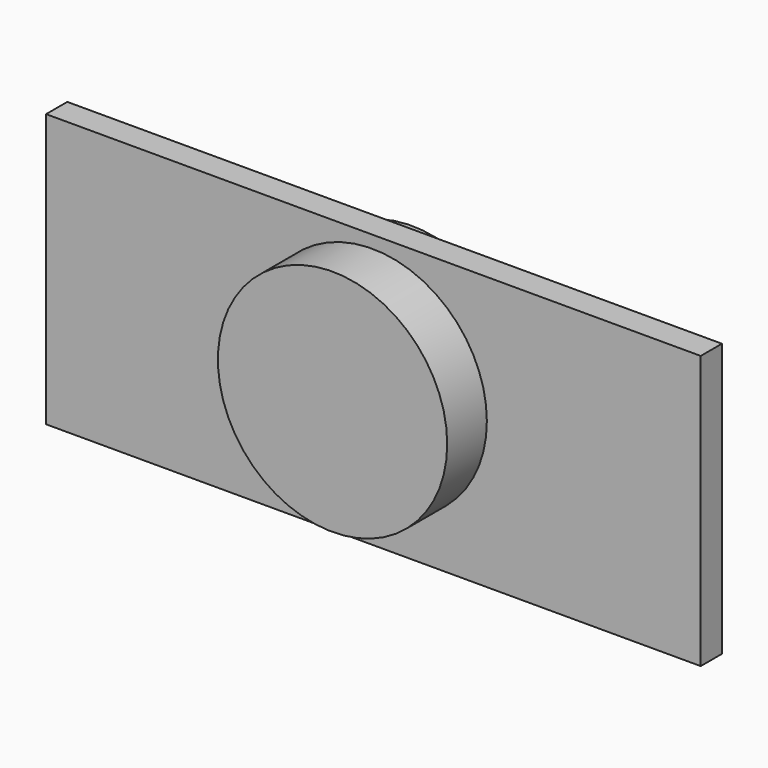
from build123d import *

# Parameters (mm, degrees)
F0_W     = 44.45
F0_H     = 18.542
F1_DEPTH = 1.79912
F2_R     = 7.7851
F3_DEPTH = 3.3655


with BuildPart() as f1:
    # F0 (on Front) → F1 (new body)
    with BuildSketch(Plane.XZ):
        with Locations((-4.156615, -1.108171)):
            Rectangle(F0_W, F0_H)
    extrude(amount=F1_DEPTH)

    # F2 (on face) → F3 (join, symmetric)
    with BuildSketch(Plane.XZ.offset(1.79912)):
        with Locations((-4.23788, -0.463784)):
            Circle(F2_R)
    extrude(amount=F3_DEPTH, both=True)


solid = f1.part
